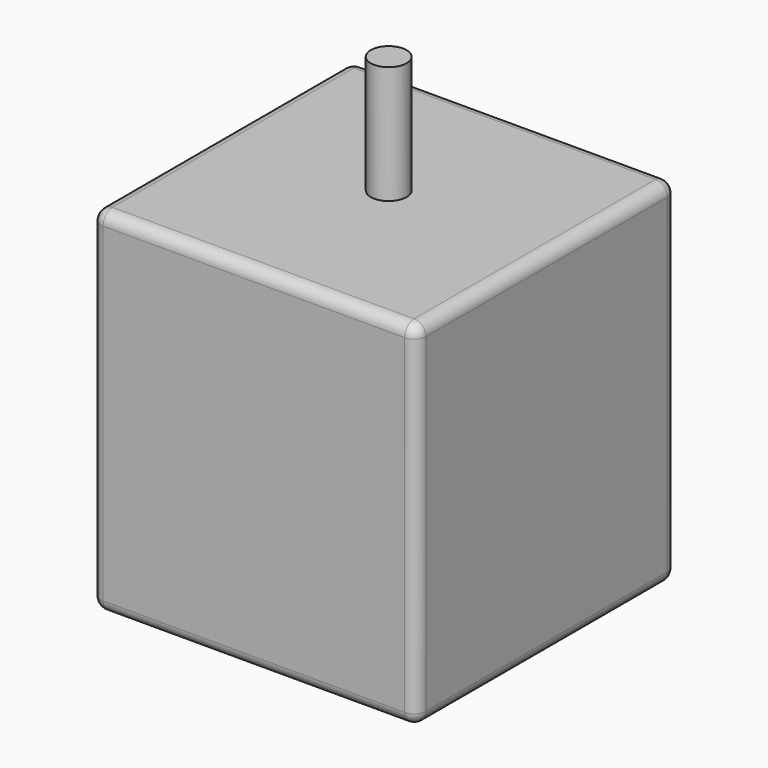
from build123d import *

# Parameters (mm, degrees)
F0_W     = 35.052
F0_H     = 35.052
F1_DEPTH = 38.1
F2_R     = 1.9304
F3_DEPTH = 50.8
F4_R     = 1.27


with BuildPart() as f1:
    # F0 (on Top) → F1 (new body)
    with BuildSketch(Plane.XY):
        with Locations((-23.559753, 20.005452)):
            Rectangle(F0_W, F0_H)
    extrude(amount=F1_DEPTH)

    # F2 (on Top) → F3 (join)
    with BuildSketch(Plane.XY):
        with Locations((-23.589674, 20.671986)):
            Circle(F2_R)
    extrude(amount=F3_DEPTH)

    # F4
    f4_edges = [f1.edges().sort_by_distance(p)[0] for p in [
        (-23.559753, 37.531452, 38.1),
        (-41.085753, 37.531452, 19.05),
        (-41.085753, 2.479452, 19.05),
        (-41.085753, 20.005452, 0),
        (-41.085753, 20.005452, 38.1),
        (-23.559753, 2.479452, 38.1),
        (-6.033753, 20.005452, 38.1),
        (-6.033753, 2.479452, 19.05),
        (-23.559753, 2.479452, 0),
        (-6.033753, 37.531452, 19.05),
        (-6.033753, 20.005452, 0),
        (-23.559753, 37.531452, 0),
    ]]
    fillet(f4_edges, radius=F4_R)


solid = f1.part
